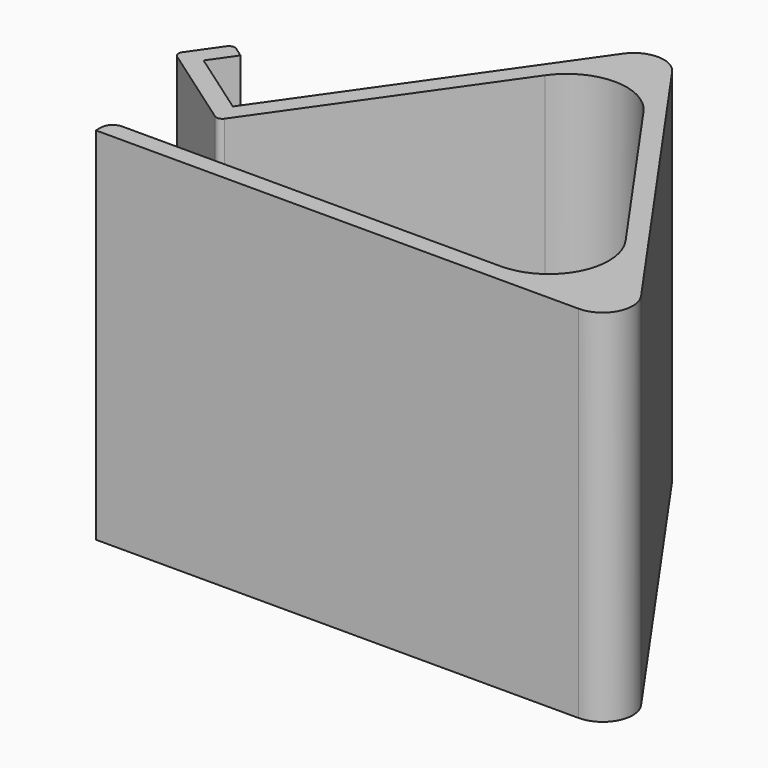
from build123d import *

# Parameters (mm, degrees)
PAD_DEPTH    = 60
POCKET_DEPTH = 21.9353755374


with BuildPart() as part:
    # Sketch → Pad (new body)
    with BuildSketch(Plane.XY):
        with BuildLine():
            Line((-4.0957602214, -5.8493517964), (-34.4145861811, -49.1491226573))
            Line((-34.4145861811, -49.1491226573), (-45.473138779, -41.4058407666))
            Line((-45.473138779, -41.4058407666), (-42.6052565972, -37.3100805452))
            Line((-42.6052565972, -37.3100805452), (-44.2435606858, -36.1629276725))
            ThreePointArc((-44.2435606858, -36.1629276725), (-44.9907852998, -35.9972719637), (-45.6362891664, -36.4085032804))
            Line((-45.6362891664, -36.4085032804), (-49.0777477845, -41.3234155461))
            ThreePointArc((-49.0777477845, -41.3234155461), (-49.2434034933, -42.0706401601), (-48.8321721766, -42.7161440268))
            Line((-48.8321721766, -42.7161440268), (-34.4970114015, -52.7537316629))
            ThreePointArc((-34.4970114015, -52.7537316629), (-33.7497867875, -52.9193873716), (-33.1042829209, -52.508156055))
            Line((-33.1042829209, -52.508156055), (-8.1915204429, -16.9290439796))
            ThreePointArc((8.1915204429, -16.9290439796), (0, -12.6648083431), (-8.1915204429, -16.9290439796))
            Line((8.1915204429, -16.9290439796), (29.1048677003, -46.7963991796))
            ThreePointArc((20.9133472575, -62.5321635431), (29.7834555892, -57.1496496755), (29.1048677003, -46.7963991796))
            Line((20.9133472575, -62.5321635431), (-42.1138850919, -62.5321635431))
            ThreePointArc((-42.1138850919, -62.5321635431), (-43.5280986543, -63.1179499807), (-44.1138850919, -64.5321635431))
            Line((-44.1138850919, -64.5321635431), (-44.1138850919, -65.5321635431))
            Line((-44.1138850919, -65.5321635431), (36.2812042732, -65.5321635431))
            ThreePointArc((36.2812042732, -65.5321635431), (40.7162584391, -62.8409066093), (40.3769644947, -57.6642813614))
            Line((40.3769644947, -57.6642813614), (4.0957602214, -5.8493517964))
            ThreePointArc((4.0957602214, -5.8493517964), (0, -3.7172339781), (-4.0957602214, -5.8493517964))
        make_face()
    extrude(amount=PAD_DEPTH)

    # Sketch001 (on Face9 of Pad) → Pocket (cut, through all)
    with BuildSketch(Plane(origin=(-34.4145861811, -49.1491226573, 0), x_dir=(-0.8191520443, 0.5735764364, 0), z_dir=(0.5735764364, 0.8191520443, 0))):
        with BuildLine():
            Line((1.75, 24.5), (1.75, 35.5))
            ThreePointArc((3.25, 37), (2.1893398282, 36.5606601718), (1.75, 35.5))
            Line((3.25, 37), (10.25, 37))
            ThreePointArc((11.75, 35.5), (11.3106601718, 36.5606601718), (10.25, 37))
            Line((11.75, 35.5), (11.75, 24.5))
            ThreePointArc((10.25, 23), (11.3106601718, 23.4393398282), (11.75, 24.5))
            Line((10.25, 23), (3.25, 23))
            ThreePointArc((1.75, 24.5), (2.1893398282, 23.4393398282), (3.25, 23))
        make_face()
    extrude(amount=-POCKET_DEPTH, mode=Mode.SUBTRACT)


solid = part.part
